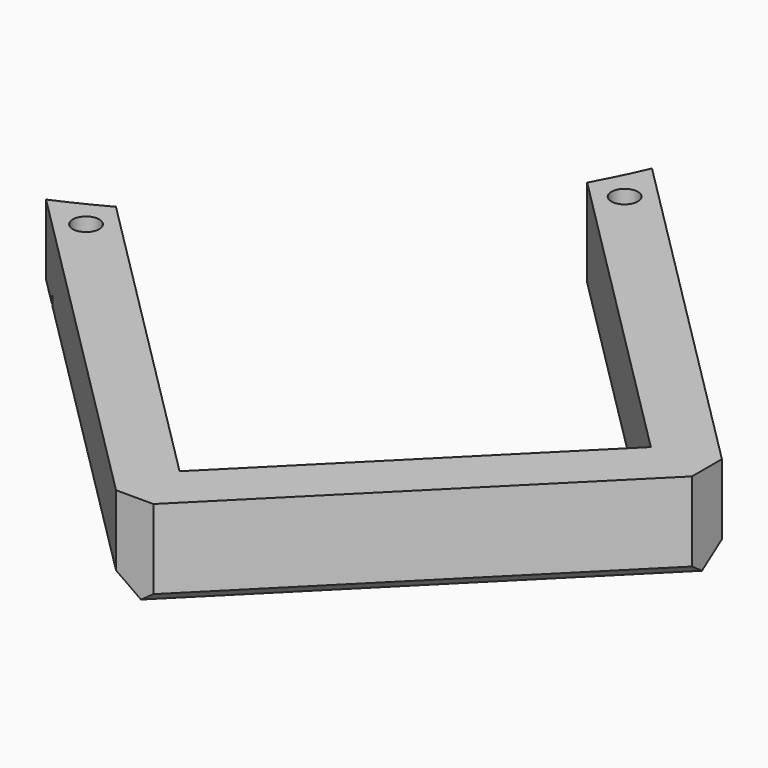
from build123d import *

# Parameters (mm, degrees)
CYLINDER1977_R               = 3
CYLINDER1977_DEPTH           = 3
CYLINDER1974_R               = 3
CYLINDER1974_DEPTH           = 3
CYLINDER1975_R               = 3
CYLINDER1975_DEPTH           = 3
CYLINDER1976_R               = 3
CYLINDER1976_DEPTH           = 3
COMPOUND1064_PLACEMENT_ANGLE = 225
CYLINDER1981_R               = 1.5
CYLINDER1981_DEPTH           = 60
CYLINDER1978_R               = 1.5
CYLINDER1978_DEPTH           = 60
CYLINDER1979_R               = 1.5
CYLINDER1979_DEPTH           = 60
CYLINDER1980_R               = 1.5
CYLINDER1980_DEPTH           = 60
COMPOUND1067_PLACEMENT_ANGLE = 225
CYLINDER1982_R               = 74
CYLINDER1982_DEPTH           = 40
BOX982_W                     = 42
BOX982_H                     = 62
BOX982_DEPTH                 = 50
COMPOUND1065_PLACEMENT_ANGLE = 225
BOX983_W                     = 54
BOX983_H                     = 68
BOX983_DEPTH                 = 10
COMPOUND1066_PLACEMENT_ANGLE = 225
CHAMFER073_SIZE              = 3
CHAMFER074_SIZE              = 2
CHAMFER075_SIZE              = 1


with BuildPart() as obj1:
    # Cylinder1977 → Cylinder1977 (new body)
    with BuildSketch(Plane(origin=(-24, 74, -80), x_dir=(1, 0, 0), z_dir=(0, 0, 1))):
        Circle(CYLINDER1977_R)
    extrude(amount=CYLINDER1977_DEPTH)


with BuildPart() as obj2:
    # Cylinder1974 → Cylinder1974 (new body)
    with BuildSketch(Plane(origin=(-15, 135, -80), x_dir=(1, 0, 0), z_dir=(0, 0, 1))):
        Circle(CYLINDER1974_R)
    extrude(amount=CYLINDER1974_DEPTH)


with BuildPart() as obj3:
    # Cylinder1975 → Cylinder1975 (new body)
    with BuildSketch(Plane(origin=(15, 135, -80), x_dir=(1, 0, 0), z_dir=(0, 0, 1))):
        Circle(CYLINDER1975_R)
    extrude(amount=CYLINDER1975_DEPTH)


with BuildPart() as compound1064:
    # Cylinder1976 → Cylinder1976 (new body)
    with BuildSketch(Plane(origin=(24, 74, -80), x_dir=(1, 0, 0), z_dir=(0, 0, 1))):
        Circle(CYLINDER1976_R)
    extrude(amount=CYLINDER1976_DEPTH)

    # Compound1064: union obj1, obj2, obj3
    add(obj1.part)
    add(obj2.part)
    add(obj3.part)


with BuildPart() as compound1064_1:
    # Compound1064 placement: moved
    add(compound1064.part.moved(Location((0, 0, 135))).rotate(Axis((0, 0, 135), (0, 0, 1)), COMPOUND1064_PLACEMENT_ANGLE))


with BuildPart() as obj4:
    # Cylinder1981 → Cylinder1981 (new body)
    with BuildSketch(Plane(origin=(-24, 74, -80), x_dir=(1, 0, 0), z_dir=(0, 0, 1))):
        Circle(CYLINDER1981_R)
    extrude(amount=CYLINDER1981_DEPTH)


with BuildPart() as obj5:
    # Cylinder1978 → Cylinder1978 (new body)
    with BuildSketch(Plane(origin=(-15, 135, -80), x_dir=(1, 0, 0), z_dir=(0, 0, 1))):
        Circle(CYLINDER1978_R)
    extrude(amount=CYLINDER1978_DEPTH)


with BuildPart() as obj6:
    # Cylinder1979 → Cylinder1979 (new body)
    with BuildSketch(Plane(origin=(15, 135, -80), x_dir=(1, 0, 0), z_dir=(0, 0, 1))):
        Circle(CYLINDER1979_R)
    extrude(amount=CYLINDER1979_DEPTH)


with BuildPart() as compound1067:
    # Cylinder1980 → Cylinder1980 (new body)
    with BuildSketch(Plane(origin=(24, 74, -80), x_dir=(1, 0, 0), z_dir=(0, 0, 1))):
        Circle(CYLINDER1980_R)
    extrude(amount=CYLINDER1980_DEPTH)

    # Compound1067: union obj4, obj5, obj6
    add(obj4.part)
    add(obj5.part)
    add(obj6.part)


with BuildPart() as compound1067_1:
    # Compound1067 placement: moved
    add(compound1067.part.moved(Location((0, 0, 100))).rotate(Axis((0, 0, 100), (0, 0, 1)), COMPOUND1067_PLACEMENT_ANGLE))


with BuildPart() as obj7:
    # Cylinder1982 → Cylinder1982 (new body)
    with BuildSketch(Plane.XY.offset(44)):
        Circle(CYLINDER1982_R)
    extrude(amount=CYLINDER1982_DEPTH)


with BuildPart() as compound1065:
    # Box982 → Box982 (new body)
    with BuildSketch(Plane(origin=(-21.001071, 60.005081, 31), x_dir=(1, 0, 0), z_dir=(0, 0, 1))):
        with Locations((21, 31)):
            Rectangle(BOX982_W, BOX982_H)
    extrude(amount=BOX982_DEPTH)


with BuildPart() as compound1065_1:
    # Compound1065 placement: moved
    add(compound1065.part.rotate(Axis((0, 0, 0), (0, 0, 1)), COMPOUND1065_PLACEMENT_ANGLE))


with BuildPart() as cut664:
    # Box983 → Box983 (new body)
    with BuildSketch(Plane(origin=(-27.004408, 59.99801, 75), x_dir=(1, 0, 0), z_dir=(0, 0, 1))):
        with Locations((27, 34)):
            Rectangle(BOX983_W, BOX983_H)
    extrude(amount=BOX983_DEPTH)


with BuildPart() as cut664_1:
    # Compound1066 placement: moved
    add(cut664.part.moved(Location((0, 0, -20))).rotate(Axis((0, 0, -20), (0, 0, 1)), COMPOUND1066_PLACEMENT_ANGLE))

    # Cut666: cut Compound1065
    add(compound1065_1.part, mode=Mode.SUBTRACT)

    # Cut669: cut obj7
    add(obj7.part, mode=Mode.SUBTRACT)

    # Chamfer073
    chamfer073_edges = [cut664_1.edges().sort_by_distance(p)[0] for p in [
        (109.603261, -71.413261, 60),
        (71.419495, -109.597027, 60),
    ]]
    chamfer(chamfer073_edges, length=CHAMFER073_SIZE)

    # Chamfer074
    chamfer074_edges = [cut664_1.edges().sort_by_distance(p)[0] for p in [
        (87.647149, -49.457149, 55),
        (49.464605, -87.642137, 55),
    ]]
    chamfer(chamfer074_edges, length=CHAMFER074_SIZE)

    # Chamfer075
    chamfer075_edges = [cut664_1.edges().sort_by_distance(p)[0] for p in [
        (90.511378, -90.505144, 55),
    ]]
    chamfer(chamfer075_edges, length=CHAMFER075_SIZE)

    # Cut665: cut Compound1067
    add(compound1067_1.part, mode=Mode.SUBTRACT)

    # Cut664: cut Compound1064
    add(compound1064_1.part, mode=Mode.SUBTRACT)


solid = cut664_1.part
